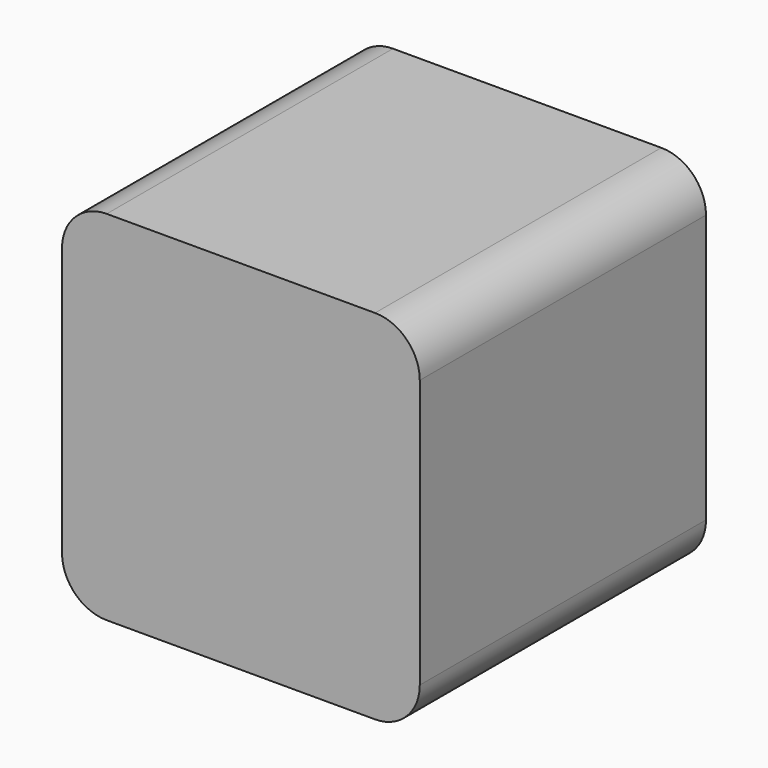
from build123d import *

# Parameters (mm, degrees)
F1_DEPTH = 25.4


with BuildPart() as f1:
    # F0 (on Front) → F1 (new body, symmetric)
    with BuildSketch(Plane.XZ):
        with BuildLine():
            ThreePointArc((25.4, 19.05), (23.540128, 23.540128), (19.05, 25.4))
            Line((19.05, 25.4), (-19.05, 25.4))
            ThreePointArc((-19.05, 25.4), (-23.540128, 23.540128), (-25.4, 19.05))
            Line((-25.4, 19.05), (-25.4, -19.05))
            ThreePointArc((-25.4, -19.05), (-23.540128, -23.540128), (-19.05, -25.4))
            Line((-19.05, -25.4), (19.05, -25.4))
            ThreePointArc((19.05, -25.4), (23.540128, -23.540128), (25.4, -19.05))
            Line((25.4, -19.05), (25.4, 19.05))
        make_face()
    extrude(amount=F1_DEPTH, both=True)


solid = f1.part
